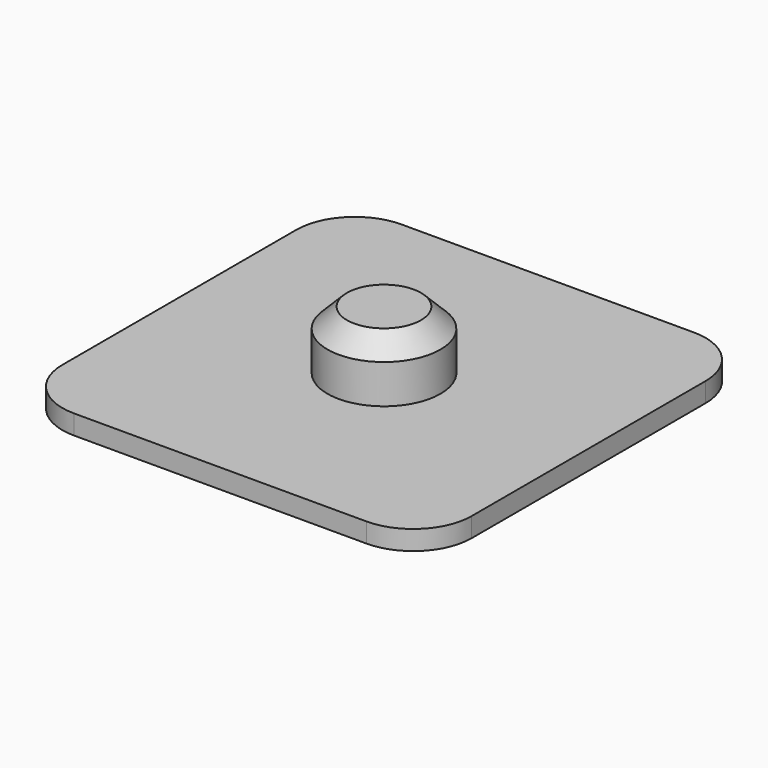
from build123d import *

# Parameters (mm, degrees)
F0_R     = 14.5
F1_DEPTH = 20
F0_W     = 105
F0_H     = 105
F2_DEPTH = 5
F3_R     = 15
F4_SIZE  = 5


with BuildPart() as f1:
    # F0 (on Top) → F1 (new body)
    with BuildSketch(Plane.XY):
        Circle(F0_R)
    extrude(amount=F1_DEPTH)

    # F0 (on Top) → F2 (join)
    with BuildSketch(Plane.XY):
        Rectangle(F0_W, F0_H)
        Circle(F0_R, mode=Mode.SUBTRACT)
    extrude(amount=F2_DEPTH)

    # F3
    f3_edges = [f1.edges().sort_by_distance(p)[0] for p in [
        (52.5, -52.5, 2.5),
        (-52.5, -52.5, 2.5),
        (-52.5, 52.5, 2.5),
        (52.5, 52.5, 2.5),
    ]]
    fillet(f3_edges, radius=F3_R)

    # F4
    f4_edges = [f1.edges().sort_by_distance(p)[0] for p in [
        (-14.5, 0, 20),
    ]]
    chamfer(f4_edges, length=F4_SIZE)


solid = f1.part
